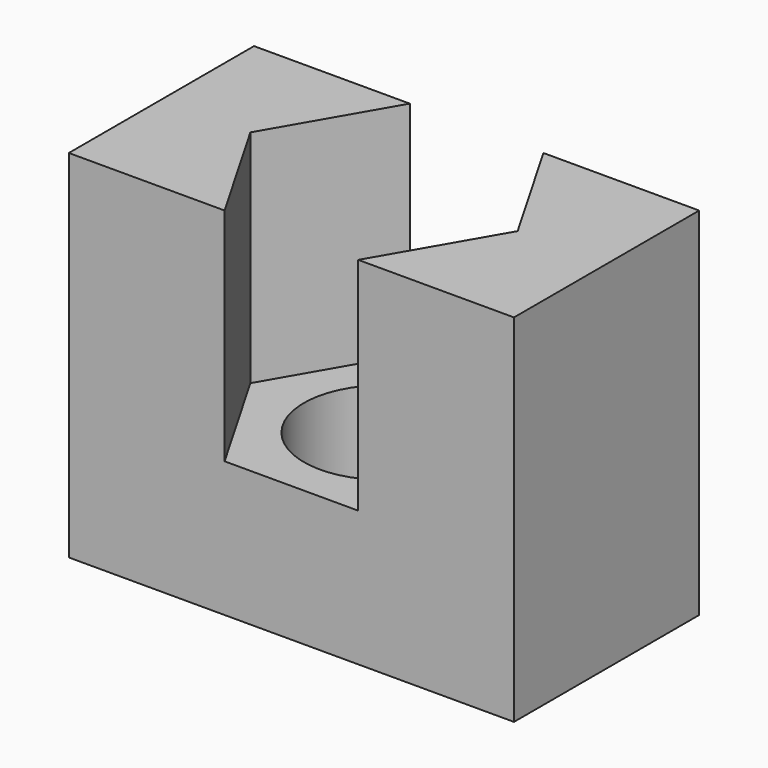
from build123d import *

# Parameters (mm, degrees)
SKETCH_W     = 25
SKETCH_H     = 13
SKETCH_R     = 4.5
PAD_DEPTH    = 20
POCKET_DEPTH = 12.4


with BuildPart() as part:
    # Sketch → Pad (new body)
    with BuildSketch(Plane.XY):
        Rectangle(SKETCH_W, SKETCH_H)
        Circle(SKETCH_R, mode=Mode.SUBTRACT)
    extrude(amount=PAD_DEPTH)

    # Sketch001 → Pocket (cut)
    with BuildSketch(Plane.XY.offset(20)):
        Polygon((-7.505554, 0), (-3.752777, -6.5), (3.752777, -6.5), (7.505554, 0), (3.752777, 6.5), (-3.752777, 6.5), align=None)
    extrude(amount=-POCKET_DEPTH, mode=Mode.SUBTRACT)


solid = part.part
